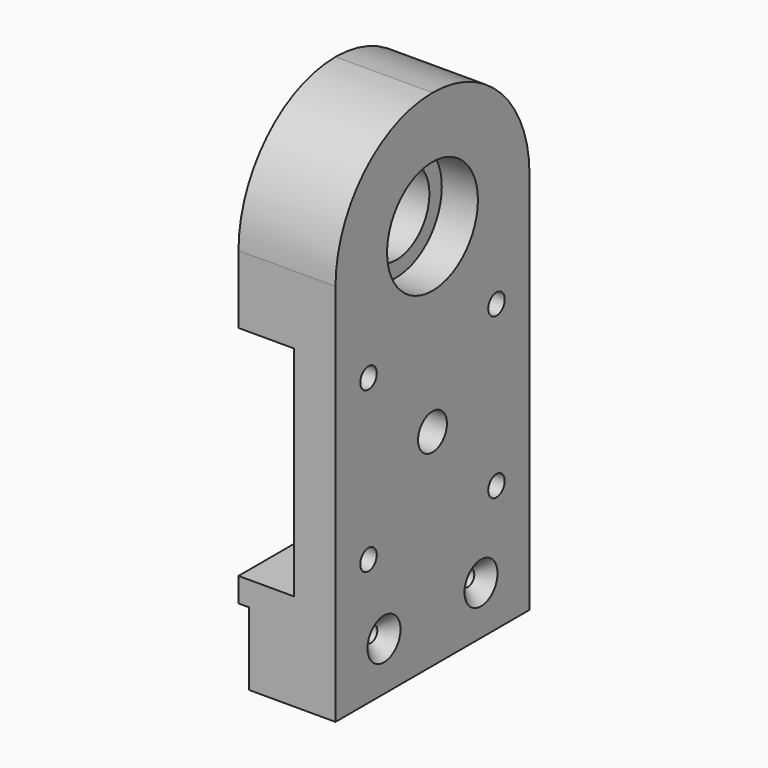
from build123d import *

# Parameters (mm, degrees)
SKETCH011_W     = 18.8
SKETCH011_H     = 47
PAD007_DEPTH    = 97.8
SKETCH025_R     = 2
POCKET007_DEPTH = 18.8
SKETCH026_W     = 47
SKETCH026_H     = 42.3
POCKET008_DEPTH = 10.8
SKETCH027_R     = 11
POCKET009_DEPTH = 2.5
SKETCH028_R     = 3.5
POCKET010_DEPTH = 18.801
SKETCH030_W     = 47
SKETCH030_H     = 14.1
POCKET011_DEPTH = 2
SKETCH056_R     = 8
POCKET023_DEPTH = 18.801
SKETCH057_R     = 11
POCKET024_DEPTH = 7
FILLET002_R     = 23.49
SKETCH074_R     = 1.5
POCKET029_DEPTH = 18.801
CHAMFER003_SIZE = 2.5


with BuildPart() as part:
    # Sketch011 (on DatumPlane) → Pad007 (new body)
    with BuildSketch(Plane.XY):
        with Locations((50.4, 0)):
            Rectangle(SKETCH011_W, SKETCH011_H)
    extrude(amount=PAD007_DEPTH)

    # Sketch025 (on Face4 of Pad007) → Pocket007 (cut)
    with BuildSketch(Plane.YZ.offset(59.8)):
        with Locations((-15.5, 55.45)):
            Circle(SKETCH025_R)
        with Locations((15.5, 55.45)):
            Circle(SKETCH025_R)
        with Locations((-15.5, 24.45)):
            Circle(SKETCH025_R)
        with Locations((15.5, 24.45)):
            Circle(SKETCH025_R)
    extrude(amount=-POCKET007_DEPTH, mode=Mode.SUBTRACT)

    # Sketch026 (on Face2 of Pad007) → Pocket008 (cut)
    with BuildSketch(Plane(origin=(41, 0, 0), x_dir=(0, -1, 0), z_dir=(-1, 0, 0))):
        with Locations((0, 39.95)):
            Rectangle(SKETCH026_W, SKETCH026_H)
    extrude(amount=-POCKET008_DEPTH, mode=Mode.SUBTRACT)

    # Sketch027 (on Face5 of Pocket008) → Pocket009 (cut)
    with BuildSketch(Plane(origin=(51.8, 0, 0), x_dir=(0, -1, 0), z_dir=(-1, 0, 0))):
        with Locations((0, 39.95)):
            Circle(SKETCH027_R)
    extrude(amount=-POCKET009_DEPTH, mode=Mode.SUBTRACT)

    # Sketch028 (on Face7 of Pocket009) → Pocket010 (cut, through all)
    with BuildSketch(Plane(origin=(41, 0, 0), x_dir=(0, -1, 0), z_dir=(-1, 0, 0))):
        with Locations((0, 39.95)):
            Circle(SKETCH028_R)
    extrude(amount=-POCKET010_DEPTH, mode=Mode.SUBTRACT)

    # Sketch030 (on Face3 of Pocket007) → Pocket011 (cut)
    with BuildSketch(Plane(origin=(41, 0, 0), x_dir=(0, -1, 0), z_dir=(-1, 0, 0))):
        with Locations((0, 7.05)):
            Rectangle(SKETCH030_W, SKETCH030_H)
    extrude(amount=-POCKET011_DEPTH, mode=Mode.SUBTRACT)

    # Sketch056 (on Face11 of Pocket011) → Pocket023 (cut, through all)
    with BuildSketch(Plane.YZ.offset(59.8)):
        with Locations((0, 75)):
            Circle(SKETCH056_R)
    extrude(amount=-POCKET023_DEPTH, mode=Mode.SUBTRACT)

    # Sketch057 (on Face11 of Pocket023) → Pocket024 (cut)
    with BuildSketch(Plane.YZ.offset(59.8)):
        with Locations((0, 75)):
            Circle(SKETCH057_R)
    extrude(amount=-POCKET024_DEPTH, mode=Mode.SUBTRACT)

    # Fillet002
    fillet002_edges = [part.edges().sort_by_distance(p)[0] for p in [
        (50.4, 23.5, 97.8),
        (50.4, -23.5, 97.8),
    ]]
    fillet(fillet002_edges, radius=FILLET002_R)

    # Sketch074 (on Face5 of Fillet002) → Pocket029 (cut, through all)
    with BuildSketch(Plane.YZ.offset(59.8)):
        with Locations((-11.75, 9.4)):
            Circle(SKETCH074_R)
        with Locations((11.75, 9.4)):
            Circle(SKETCH074_R)
    extrude(amount=-POCKET029_DEPTH, mode=Mode.SUBTRACT)

    # Chamfer003
    chamfer003_edges = [part.edges().sort_by_distance(p)[0] for p in [
        (59.8, 10.25, 9.4),
        (59.8, -13.25, 9.4),
    ]]
    chamfer(chamfer003_edges, length=CHAMFER003_SIZE)


solid = part.part
